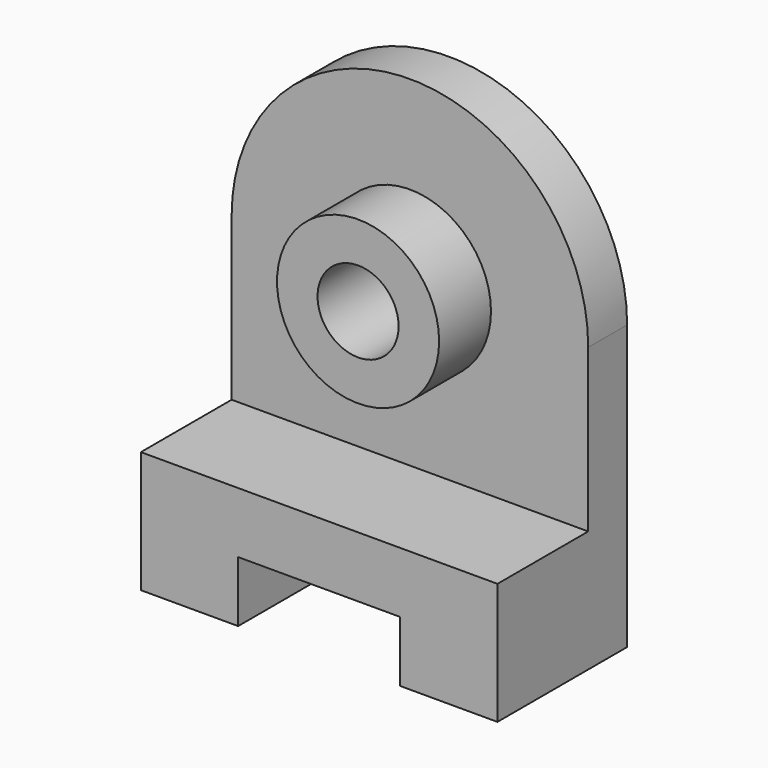
from build123d import *

# Parameters (mm, degrees)
F1_DEPTH = 40
F0_R     = 20
F2_DEPTH = 12
F0_R_2   = 10
F3_DEPTH = 28


with BuildPart() as f1:
    # F0 (on Front) → F1 (new body)
    with BuildSketch(Plane.XZ):
        Polygon((-20, -55), (0, -55), (20, -55), (20, -70), (44, -70), (44, -40), (0, -40), (-44, -40), (-44, -70), (-20, -70), align=None)
    extrude(amount=F1_DEPTH)

    # F0 (on Front) → F2 (join)
    with BuildSketch(Plane.XZ):
        Polygon((-20, -55), (0, -55), (20, -55), (20, -70), (44, -70), (44, -40), (0, -40), (-44, -40), (-44, -70), (-20, -70), align=None)
        with BuildLine():
            Line((-44, 0), (-44, -40))
            Line((-44, -40), (0, -40))
            Line((0, -40), (44, -40))
            Line((44, -40), (44, 0))
            ThreePointArc((44, 0), (0, 44), (-44, 0))
        make_face()
        Circle(F0_R, mode=Mode.SUBTRACT)
    extrude(amount=F2_DEPTH)

    # F0 (on Front) → F3 (join)
    with BuildSketch(Plane.XZ):
        Circle(F0_R)
        Circle(F0_R_2, mode=Mode.SUBTRACT)
    extrude(amount=F3_DEPTH)


solid = f1.part
